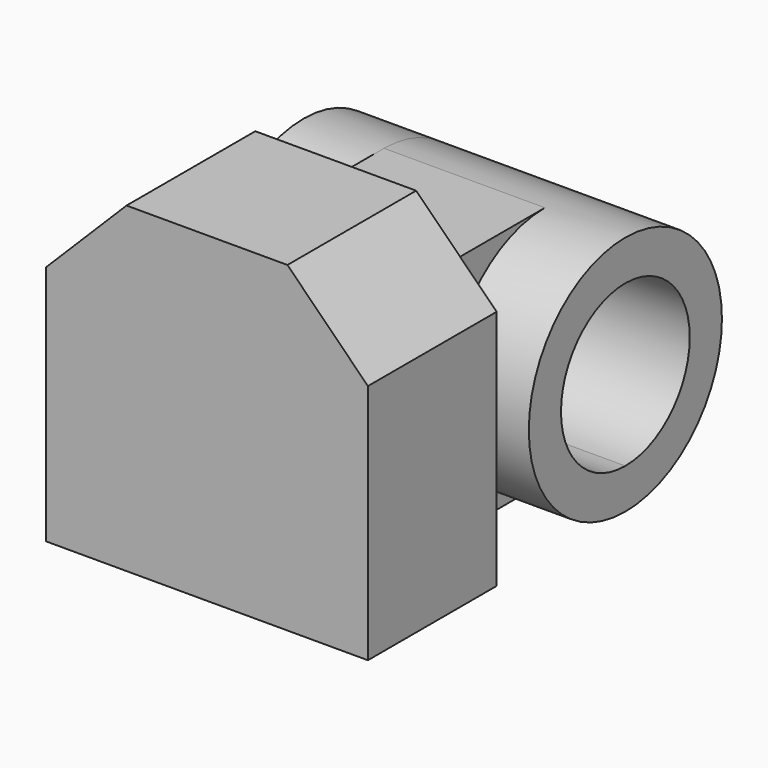
from build123d import *

# Parameters (mm, degrees)
F0_W          = 101.6
F0_H          = 50.8
F1_DEPTH      = 101.6
F3_DEPTH      = 50.801
F4_W          = 50.8
F4_H          = 76.2
F5_DEPTH      = 50.8
F6_R          = 38.1
F6_R_2        = 25.4
F7_DEPTH      = 25.4
F7_DEPTH_BACK = 76.2
F8_DEPTH      = 76.201


with BuildPart() as f1:
    # F0 (on Top) → F1 (new body)
    with BuildSketch(Plane.XY):
        with Locations((-50.8, 25.4)):
            Rectangle(F0_W, F0_H)
    extrude(amount=F1_DEPTH)

    # F2 (on face) → F3 (cut, through all)
    with BuildSketch(Plane(origin=(0, 50.8, 0), x_dir=(-1, 0, 0), z_dir=(0, 1, 0))):
        Polygon((0, 76.2), (25.4, 101.6), (0, 101.6), align=None)
        Polygon((101.6, 101.6), (76.2, 101.6), (101.6, 76.2), align=None)
    extrude(amount=-F3_DEPTH, mode=Mode.SUBTRACT)

    # F4 (on face) → F5 (join)
    with BuildSketch(Plane(origin=(0, 50.8, 0), x_dir=(-1, 0, 0), z_dir=(0, 1, 0))):
        with Locations((50.8, 38.1)):
            Rectangle(F4_W, F4_H)
    extrude(amount=F5_DEPTH)

    # F6 (on face) → F7 (join, two sides)
    with BuildSketch(Plane(origin=(-76.2, 0, 0), x_dir=(0, -1, 0), z_dir=(-1, 0, 0))) as f7_sk:
        with Locations((-101.6, 38.1)):
            Circle(F6_R)
        with Locations((-101.6, 38.1)):
            Circle(F6_R_2, mode=Mode.SUBTRACT)
    extrude(amount=F7_DEPTH)
    extrude(f7_sk.sketch, amount=-F7_DEPTH_BACK)

    # F7_face (on face) → F8 (cut, through all)
    with BuildSketch(Plane(origin=(-76.2, 90.819905, 38.1), x_dir=(0, -1, 0), z_dir=(-1, 0, 0))):
        with BuildLine():
            ThreePointArc((-10.780095, -25.4), (7.180417, -17.960512), (14.619905, 0))
            ThreePointArc((14.619905, 0), (7.180417, 17.960512), (-10.780095, 25.4))
            Line((-10.780095, 25.4), (-10.780095, -25.4))
        make_face()
    extrude(amount=-F8_DEPTH, mode=Mode.SUBTRACT)


solid = f1.part
